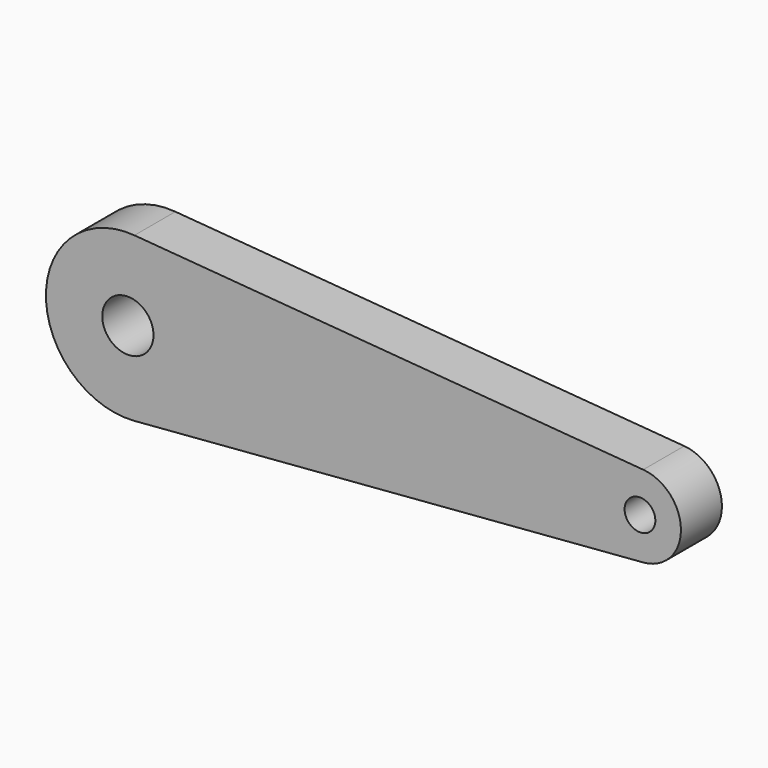
from build123d import *

# Parameters (mm, degrees)
F0_R     = 2.5
F0_R_2   = 1.5
F1_DEPTH = 5


with BuildPart() as f1:
    # F0 (on Front) → F1 (new body)
    with BuildSketch(Plane.XZ):
        with BuildLine():
            Line((50.32, 3.987179), (0.64, 7.974359))
            ThreePointArc((0.64, 7.974359), (-8, 0), (0.64, -7.974359))
            Line((0.64, -7.974359), (50.32, -3.987179))
            ThreePointArc((50.32, -3.987179), (54, 0), (50.32, 3.987179))
        make_face()
        Circle(F0_R, mode=Mode.SUBTRACT)
        with Locations((50, 0)):
            Circle(F0_R_2, mode=Mode.SUBTRACT)
    extrude(amount=F1_DEPTH)


solid = f1.part
